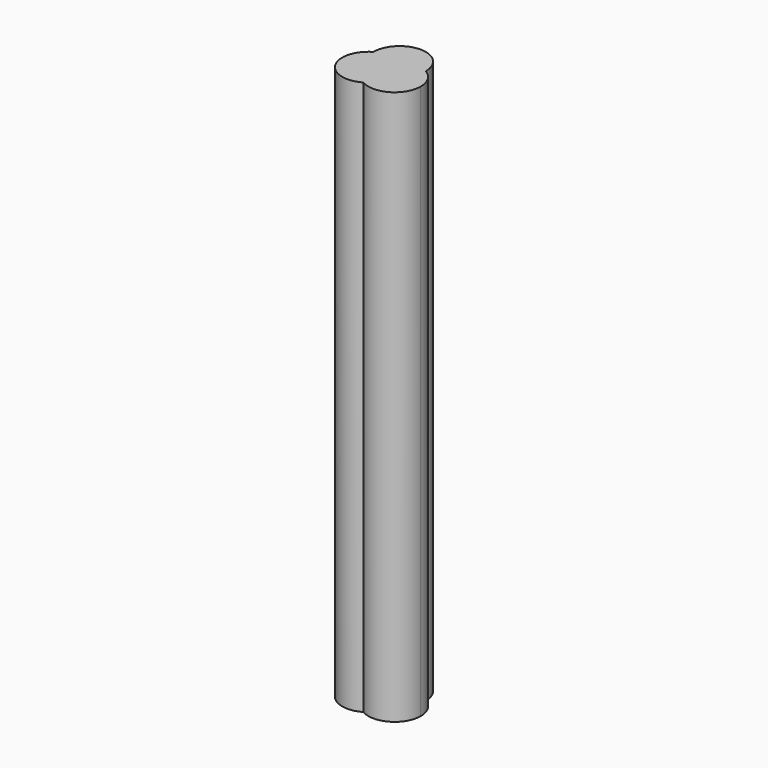
from build123d import *

# Parameters (mm, degrees)
F1_DEPTH = 25.4


with BuildPart() as f1:
    # F0 (on Top) → F1 (new body)
    with BuildSketch(Plane.XY):
        with BuildLine():
            ThreePointArc((-0.6021762814, 1.0379709659), (-0.0012572379, 1.1999993414), (0.6, 1.0392304845))
            ThreePointArc((0.6, 1.0392304845), (-0.6012572379, 2.2392298259), (-1.7999973656, 1.0367160102))
            ThreePointArc((-1.7999973656, 1.0367160102), (-1.2012549557, 1.1978210841), (-0.6021762814, 1.0379709659))
        make_face()
        with BuildLine():
            ThreePointArc((-1.2, 0), (-1.0398585331, 0.5989108708), (-0.6021762814, 1.0379709659))
            ThreePointArc((-0.6021762814, 1.0379709659), (-1.2012549557, 1.1978210841), (-1.7999973656, 1.0367160102))
            ThreePointArc((-1.7999973656, 1.0367160102), (-1.6386012952, 0.4381420139), (-1.2, 0))
        make_face()
        with BuildLine():
            ThreePointArc((-0.0021782585, 0), (-0.1629698239, 0.5994542004), (-0.6021762814, 1.0379709659))
            ThreePointArc((-0.6021762814, 1.0379709659), (-1.0398585331, 0.5989108708), (-1.2, 0))
            ThreePointArc((-1.2, 0), (-0.6012572379, -0.1607688569), (-0.0021789159, -0.0012549557))
            ThreePointArc((-0.0021789159, -0.0012549557), (-0.0021784228, -0.0006274779), (-0.0021782585, 0))
        make_face()
        with BuildLine():
            ThreePointArc((-0.0021789159, -0.0012549557), (0.4386012952, 0.4381420139), (0.6, 1.0392304845))
            ThreePointArc((0.6, 1.0392304845), (-0.0012572379, 1.1999993414), (-0.6021762814, 1.0379709659))
            ThreePointArc((-0.6021762814, 1.0379709659), (-0.1629698239, 0.5994542004), (-0.0021782585, 0))
            ThreePointArc((-0.0021782585, 0), (-0.0021784228, -0.0006274779), (-0.0021789159, -0.0012549557))
        make_face()
        with BuildLine():
            ThreePointArc((-0.6021762814, -1.0379709659), (0.5989108708, -1.0398585331), (1.2, 0))
            ThreePointArc((1.2, 0), (1.0392304845, 0.6), (0.6, 1.0392304845))
            ThreePointArc((0.6, 1.0392304845), (0.4386012952, 0.4381420139), (-0.0021789159, -0.0012549557))
            ThreePointArc((-0.0021789159, -0.0012549557), (-0.1632839898, -0.5999973656), (-0.6021762814, -1.0379709659))
        make_face()
        with BuildLine():
            ThreePointArc((-1.2, 0), (-1.0398585331, -0.5989108708), (-0.6021762814, -1.0379709659))
            ThreePointArc((-0.6021762814, -1.0379709659), (-0.1632839898, -0.5999973656), (-0.0021789159, -0.0012549557))
            ThreePointArc((-0.0021789159, -0.0012549557), (-0.6012572379, -0.1607688569), (-1.2, 0))
        make_face()
        with BuildLine():
            ThreePointArc((-1.7999973656, 1.0367160102), (-2.2373440574, -0.5989108708), (-0.6021762814, -1.0379709659))
            ThreePointArc((-0.6021762814, -1.0379709659), (-1.0398585331, -0.5989108708), (-1.2, 0))
            ThreePointArc((-1.2, 0), (-1.6386012952, 0.4381420139), (-1.7999973656, 1.0367160102))
        make_face()
    extrude(amount=F1_DEPTH)


solid = f1.part
